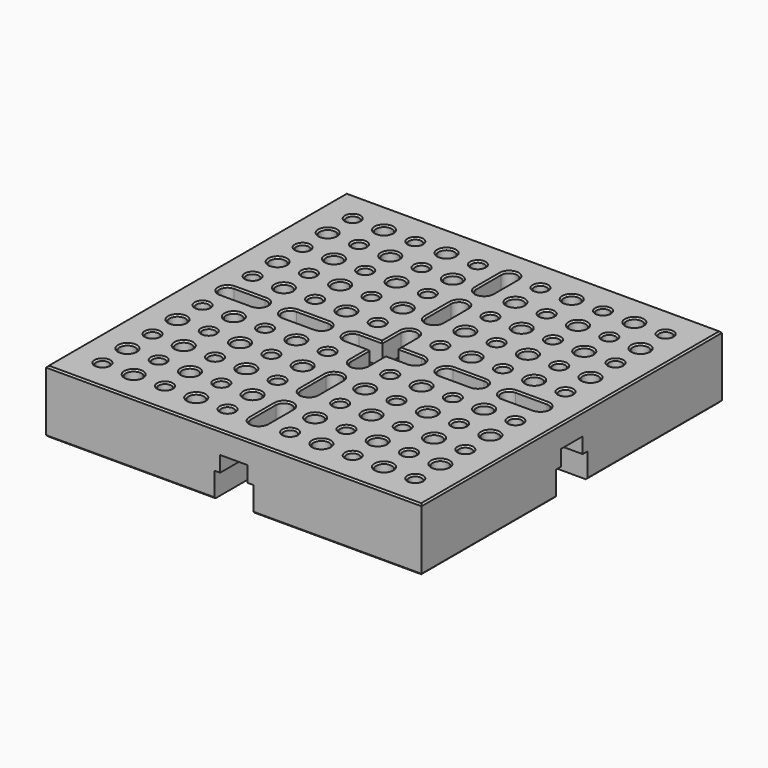
from build123d import *

# Parameters (mm, degrees)
F0_W      = 152.4
F0_H      = 152.4
F1_DEPTH  = 25.4
F3_D      = 5.1054
F4_D      = 5.1054
F5_D      = 6.3754
F5_DEPTH  = 22.86
F5_TIP    = 1.9153633953
F6_W      = 3.2385
F6_H      = 3.2385
F7_DEPTH  = 25.401
F8_SIZE   = 0.635
F10_DEPTH = 152.401
F12_DEPTH = 152.401
F13_R     = 0.79248


with BuildPart() as f1:
    # F0 (on Top) → F1 (new body)
    with BuildSketch(Plane.XY):
        Rectangle(F0_W, F0_H)
    extrude(amount=-F1_DEPTH)

    # F3 (through all)
    with Locations(Plane.XY):
        with Locations((-63.5, 63.5), (-38.1, 63.5), (-12.7, 63.5), (12.7, 63.5), (38.1, 63.5), (63.5, 63.5), (-50.8, 50.8), (-25.4, 50.8), (25.4, 50.8), (50.8, 50.8), (-63.5, 38.1), (-38.1, 38.1), (-12.7, 38.1), (12.7, 38.1), (63.5, 38.1), (38.1, 38.1), (-50.8, 25.4), (-25.4, 25.4), (-25.4, 25.4), (25.4, 25.4), (50.8, 25.4), (-63.5, 12.7), (-38.1, 12.7), (-12.7, 12.7), (12.7, 12.7), (38.1, 12.7), (63.5, 12.7)):
            Hole(F3_D / 2)

    # F4 (through all)
    with Locations(Plane.XY):
        with Locations((-63.5, -12.7), (-38.1, -12.7), (-12.7, -12.7), (12.7, -12.7), (38.1, -12.7), (63.5, -12.7), (-50.8, -25.4), (-25.4, -25.4), (25.4, -25.4), (50.8, -25.4), (63.5, -38.1), (38.1, -38.1), (12.7, -38.1), (-12.7, -38.1), (-38.1, -38.1), (-63.5, -38.1), (-50.8, -50.8), (-25.4, -50.8), (50.8, -50.8), (25.4, -50.8), (-63.5, -63.5), (-38.1, -63.5), (-12.7, -63.5), (12.7, -63.5), (38.1, -63.5), (63.5, -63.5)):
            Hole(F4_D / 2)

    # F5
    with Locations(Plane.XY):
        with Locations((-50.8, 63.5), (-25.4, 63.5), (25.4, 63.5), (50.8, 63.5), (50.8, 38.1), (38.1, 50.8), (12.7, 50.8), (-12.7, 50.8), (-63.5, 50.8), (-50.8, 38.1), (-38.1, 50.8), (-25.4, 38.1), (25.4, 38.1), (63.5, 50.8), (63.5, 25.4), (38.1, 25.4), (63.5, 25.4), (12.7, 25.4), (-12.7, 25.4), (-63.5, 25.4), (-25.4, 12.7), (-50.8, 12.7), (-38.1, 25.4), (25.4, 12.7), (50.8, 12.7), (-50.8, -12.7), (-25.4, -12.7), (-12.7, -25.4), (-38.1, -25.4), (-63.5, -25.4), (-50.8, -38.1), (-25.4, -38.1), (-63.5, -50.8), (-38.1, -50.8), (-12.7, -50.8), (-25.4, -63.5), (-50.8, -63.5), (-25.4, -63.5), (25.4, -63.5), (12.7, -50.8), (12.7, -25.4), (25.4, -12.7), (25.4, -38.1), (38.1, -25.4), (50.8, -12.7), (63.5, -25.4), (38.1, -50.8), (50.8, -38.1), (63.5, -50.8), (50.8, -63.5)):
            Hole(F5_D / 2, depth=F5_DEPTH)
            with Locations((0, 0, -(F5_DEPTH + F5_TIP / 2))):  # 118° drill point
                Cone(0, F5_D / 2, F5_TIP, mode=Mode.SUBTRACT)

    # F6 (on face) → F7 (cut, through all)
    with BuildSketch(Plane.XY):
        with Locations((1.61925, 1.61925)):
            Rectangle(F6_W, F6_H)
        with BuildLine():
            Line((-3.2385, 3.2385), (0, 3.2385))
            Line((0, 3.2385), (3.2385, 3.2385))
            Line((3.2385, 3.2385), (3.2385, 12.7))
            ThreePointArc((3.2385, 12.7), (0, 15.9385), (-3.2385, 12.7))
            Line((-3.2385, 12.7), (-3.2385, 3.2385))
        make_face()
        with Locations((-1.61925, 1.61925)):
            Rectangle(F6_W, F6_H)
        with Locations((1.61925, -1.61925)):
            Rectangle(F6_W, F6_H)
        with Locations((-1.61925, -1.61925)):
            Rectangle(F6_W, F6_H)
        with BuildLine():
            Line((12.7, 3.2385), (3.2385, 3.2385))
            Line((3.2385, 3.2385), (3.2385, 0))
            Line((3.2385, 0), (3.2385, -3.2385))
            Line((3.2385, -3.2385), (12.7, -3.2385))
            ThreePointArc((12.7, -3.2385), (15.9385, 0), (12.7, 3.2385))
        make_face()
        with BuildLine():
            Line((-3.2385, 0), (-3.2385, 3.2385))
            Line((-3.2385, 3.2385), (-12.7, 3.2385))
            ThreePointArc((-12.7, 3.2385), (-15.9385, 0), (-12.7, -3.2385))
            Line((-12.7, -3.2385), (-3.2385, -3.2385))
            Line((-3.2385, -3.2385), (-3.2385, 0))
        make_face()
        with BuildLine():
            Line((3.2385, -3.2385), (0, -3.2385))
            Line((0, -3.2385), (-3.2385, -3.2385))
            Line((-3.2385, -3.2385), (-3.2385, -12.7))
            ThreePointArc((-3.2385, -12.7), (0, -15.9385), (3.2385, -12.7))
            Line((3.2385, -12.7), (3.2385, -3.2385))
        make_face()
        with BuildLine():
            ThreePointArc((3.2385, 63.5), (0, 66.7385), (-3.2385, 63.5))
            Line((-3.2385, 63.5), (-3.2385, 50.8))
            ThreePointArc((-3.2385, 50.8), (0, 47.5615), (3.2385, 50.8))
            Line((3.2385, 50.8), (3.2385, 63.5))
        make_face()
        with BuildLine():
            ThreePointArc((3.2385, 38.1), (0, 41.3385), (-3.2385, 38.1))
            Line((-3.2385, 38.1), (-3.2385, 25.4))
            ThreePointArc((-3.2385, 25.4), (0, 22.1615), (3.2385, 25.4))
            Line((3.2385, 25.4), (3.2385, 38.1))
        make_face()
        with BuildLine():
            ThreePointArc((-25.4, -3.2385), (-22.1615, 0), (-25.4, 3.2385))
            Line((-25.4, 3.2385), (-38.1, 3.2385))
            ThreePointArc((-38.1, 3.2385), (-41.3385, 0), (-38.1, -3.2385))
            Line((-38.1, -3.2385), (-25.4, -3.2385))
        make_face()
        with BuildLine():
            ThreePointArc((-50.8, -3.2385), (-47.5615, 0), (-50.8, 3.2385))
            Line((-50.8, 3.2385), (-63.5, 3.2385))
            ThreePointArc((-63.5, 3.2385), (-66.7385, 0), (-63.5, -3.2385))
            Line((-63.5, -3.2385), (-50.8, -3.2385))
        make_face()
        with BuildLine():
            ThreePointArc((25.4, 3.2385), (22.1615, 0), (25.4, -3.2385))
            Line((25.4, -3.2385), (38.1, -3.2385))
            ThreePointArc((38.1, -3.2385), (41.3385, 0), (38.1, 3.2385))
            Line((38.1, 3.2385), (25.4, 3.2385))
        make_face()
        with BuildLine():
            ThreePointArc((50.8, 3.2385), (47.5615, 0), (50.8, -3.2385))
            Line((50.8, -3.2385), (63.5, -3.2385))
            ThreePointArc((63.5, -3.2385), (66.7385, 0), (63.5, 3.2385))
            Line((63.5, 3.2385), (50.8, 3.2385))
        make_face()
        with BuildLine():
            ThreePointArc((-3.2385, -38.1), (0, -41.3385), (3.2385, -38.1))
            Line((3.2385, -38.1), (3.2385, -25.4))
            ThreePointArc((3.2385, -25.4), (0, -22.1615), (-3.2385, -25.4))
            Line((-3.2385, -25.4), (-3.2385, -38.1))
        make_face()
        with BuildLine():
            ThreePointArc((-3.2385, -63.5), (0, -66.7385), (3.2385, -63.5))
            Line((3.2385, -63.5), (3.2385, -50.8))
            ThreePointArc((3.2385, -50.8), (0, -47.5615), (-3.2385, -50.8))
            Line((-3.2385, -50.8), (-3.2385, -63.5))
        make_face()
    extrude(amount=-F7_DEPTH, mode=Mode.SUBTRACT)

    # F8
    f8_edges = [f1.edges().sort_by_distance(p)[0] for p in [
        (-76.2, 0, 0),
        (0, 76.2, 0),
        (0, -76.2, 0),
        (76.2, 0, 0),
        (-66.0527, -63.5, 0),
        (-53.9877, -63.5, 0),
        (-66.6877, -50.8, 0),
        (-53.3527, -50.8, 0),
        (-40.6527, -63.5, 0),
        (-41.2877, -50.8, 0),
        (-66.0527, -38.1, 0),
        (-53.9877, -38.1, 0),
        (-40.6527, -38.1, 0),
        (-28.5877, -63.5, 0),
        (-27.9527, -50.8, 0),
        (-15.2527, -63.5, 0),
        (-15.8877, -50.8, 0),
        (-28.5877, -38.1, 0),
        (-15.2527, -38.1, 0),
        (-66.6877, -25.4, 0),
        (-53.3527, -25.4, 0),
        (-41.2877, -25.4, 0),
        (-66.0527, -12.7, 0),
        (-53.9877, -12.7, 0),
        (-40.6527, -12.7, 0),
        (-27.9527, -25.4, 0),
        (-15.8877, -25.4, 0),
        (-28.5877, -12.7, 0),
        (-15.2527, -12.7, 0),
        (10.1473, -63.5, 0),
        (3.2385, -57.15, 0),
        (0, -47.5615, 0),
        (-3.2385, -57.15, 0),
        (0, -66.7385, 0),
        (9.5123, -50.8, 0),
        (22.2123, -63.5, 0),
        (22.8473, -50.8, 0),
        (10.1473, -38.1, 0),
        (22.2123, -38.1, 0),
        (35.5473, -63.5, 0),
        (34.9123, -50.8, 0),
        (47.6123, -63.5, 0),
        (60.9473, -63.5, 0),
        (48.2473, -50.8, 0),
        (60.3123, -50.8, 0),
        (35.5473, -38.1, 0),
        (47.6123, -38.1, 0),
        (60.9473, -38.1, 0),
        (3.2385, -31.75, 0),
        (0, -22.1615, 0),
        (-3.2385, -31.75, 0),
        (0, -41.3385, 0),
        (9.5123, -25.4, 0),
        (22.8473, -25.4, 0),
        (10.1473, -12.7, 0),
        (22.2123, -12.7, 0),
        (34.9123, -25.4, 0),
        (48.2473, -25.4, 0),
        (60.3123, -25.4, 0),
        (35.5473, -12.7, 0),
        (47.6123, -12.7, 0),
        (60.9473, -12.7, 0),
        (-57.15, -3.2385, 0),
        (-47.5615, 0, 0),
        (-57.15, 3.2385, 0),
        (-66.7385, 0, 0),
        (-66.0527, 12.7, 0),
        (-53.9877, 12.7, 0),
        (-40.6527, 12.7, 0),
        (-66.6877, 25.4, 0),
        (-53.3527, 25.4, 0),
        (-41.2877, 25.4, 0),
        (-31.75, -3.2385, 0),
        (-22.1615, 0, 0),
        (-31.75, 3.2385, 0),
        (-41.3385, 0, 0),
        (-28.5877, 12.7, 0),
        (-15.2527, 12.7, 0),
        (-27.9527, 25.4, 0),
        (-15.8877, 25.4, 0),
        (-66.0527, 38.1, 0),
        (-53.9877, 38.1, 0),
        (-40.6527, 38.1, 0),
        (-66.6877, 50.8, 0),
        (-53.3527, 50.8, 0),
        (-66.0527, 63.5, 0),
        (-53.9877, 63.5, 0),
        (-41.2877, 50.8, 0),
        (-40.6527, 63.5, 0),
        (-28.5877, 38.1, 0),
        (-15.2527, 38.1, 0),
        (-27.9527, 50.8, 0),
        (-28.5877, 63.5, 0),
        (-15.8877, 50.8, 0),
        (-15.2527, 63.5, 0),
        (0, 15.9385, 0),
        (-3.2385, 7.96925, 0),
        (-7.96925, 3.2385, 0),
        (-15.9385, 0, 0),
        (-7.96925, -3.2385, 0),
        (-3.2385, -7.96925, 0),
        (0, -15.9385, 0),
        (3.2385, -7.96925, 0),
        (7.96925, -3.2385, 0),
        (15.9385, 0, 0),
        (7.96925, 3.2385, 0),
        (3.2385, 7.96925, 0),
        (10.1473, 12.7, 0),
        (31.75, 3.2385, 0),
        (22.1615, 0, 0),
        (31.75, -3.2385, 0),
        (41.3385, 0, 0),
        (22.2123, 12.7, 0),
        (-3.2385, 31.75, 0),
        (0, 22.1615, 0),
        (3.2385, 31.75, 0),
        (0, 41.3385, 0),
        (9.5123, 25.4, 0),
        (22.8473, 25.4, 0),
        (35.5473, 12.7, 0),
        (57.15, 3.2385, 0),
        (47.5615, 0, 0),
        (57.15, -3.2385, 0),
        (66.7385, 0, 0),
        (47.6123, 12.7, 0),
        (60.9473, 12.7, 0),
        (34.9123, 25.4, 0),
        (48.2473, 25.4, 0),
        (60.3123, 25.4, 0),
        (10.1473, 38.1, 0),
        (22.2123, 38.1, 0),
        (-3.2385, 57.15, 0),
        (0, 47.5615, 0),
        (3.2385, 57.15, 0),
        (0, 66.7385, 0),
        (9.5123, 50.8, 0),
        (10.1473, 63.5, 0),
        (22.8473, 50.8, 0),
        (22.2123, 63.5, 0),
        (35.5473, 38.1, 0),
        (47.6123, 38.1, 0),
        (60.9473, 38.1, 0),
        (34.9123, 50.8, 0),
        (35.5473, 63.5, 0),
        (48.2473, 50.8, 0),
        (60.3123, 50.8, 0),
        (47.6123, 63.5, 0),
        (60.9473, 63.5, 0),
        (-76.2, 0, -25.4),
        (0, 76.2, -25.4),
        (0, -76.2, -25.4),
        (76.2, 0, -25.4),
        (-66.0527, -63.5, -25.4),
        (-53.3527, -50.8, -25.4),
        (-40.6527, -63.5, -25.4),
        (-66.0527, -38.1, -25.4),
        (-40.6527, -38.1, -25.4),
        (-27.9527, -50.8, -25.4),
        (-15.2527, -63.5, -25.4),
        (-15.2527, -38.1, -25.4),
        (-53.3527, -25.4, -25.4),
        (-66.0527, -12.7, -25.4),
        (-40.6527, -12.7, -25.4),
        (-27.9527, -25.4, -25.4),
        (-15.2527, -12.7, -25.4),
        (10.1473, -63.5, -25.4),
        (3.2385, -57.15, -25.4),
        (0, -47.5615, -25.4),
        (-3.2385, -57.15, -25.4),
        (0, -66.7385, -25.4),
        (22.8473, -50.8, -25.4),
        (10.1473, -38.1, -25.4),
        (35.5473, -63.5, -25.4),
        (60.9473, -63.5, -25.4),
        (48.2473, -50.8, -25.4),
        (35.5473, -38.1, -25.4),
        (60.9473, -38.1, -25.4),
        (3.2385, -31.75, -25.4),
        (0, -22.1615, -25.4),
        (-3.2385, -31.75, -25.4),
        (0, -41.3385, -25.4),
        (22.8473, -25.4, -25.4),
        (10.1473, -12.7, -25.4),
        (48.2473, -25.4, -25.4),
        (35.5473, -12.7, -25.4),
        (60.9473, -12.7, -25.4),
        (-57.15, -3.2385, -25.4),
        (-47.5615, 0, -25.4),
        (-57.15, 3.2385, -25.4),
        (-66.7385, 0, -25.4),
        (-66.0527, 12.7, -25.4),
        (-40.6527, 12.7, -25.4),
        (-53.3527, 25.4, -25.4),
        (-31.75, -3.2385, -25.4),
        (-22.1615, 0, -25.4),
        (-31.75, 3.2385, -25.4),
        (-41.3385, 0, -25.4),
        (-15.2527, 12.7, -25.4),
        (-27.9527, 25.4, -25.4),
        (-66.0527, 38.1, -25.4),
        (-40.6527, 38.1, -25.4),
        (-53.3527, 50.8, -25.4),
        (-66.0527, 63.5, -25.4),
        (-40.6527, 63.5, -25.4),
        (-15.2527, 38.1, -25.4),
        (-27.9527, 50.8, -25.4),
        (-15.2527, 63.5, -25.4),
        (0, 15.9385, -25.4),
        (-3.2385, 7.96925, -25.4),
        (-7.96925, 3.2385, -25.4),
        (-15.9385, 0, -25.4),
        (-7.96925, -3.2385, -25.4),
        (-3.2385, -7.96925, -25.4),
        (0, -15.9385, -25.4),
        (3.2385, -7.96925, -25.4),
        (7.96925, -3.2385, -25.4),
        (15.9385, 0, -25.4),
        (7.96925, 3.2385, -25.4),
        (3.2385, 7.96925, -25.4),
        (10.1473, 12.7, -25.4),
        (31.75, 3.2385, -25.4),
        (22.1615, 0, -25.4),
        (31.75, -3.2385, -25.4),
        (41.3385, 0, -25.4),
        (-3.2385, 31.75, -25.4),
        (0, 22.1615, -25.4),
        (3.2385, 31.75, -25.4),
        (0, 41.3385, -25.4),
        (22.8473, 25.4, -25.4),
        (35.5473, 12.7, -25.4),
        (57.15, 3.2385, -25.4),
        (47.5615, 0, -25.4),
        (57.15, -3.2385, -25.4),
        (66.7385, 0, -25.4),
        (60.9473, 12.7, -25.4),
        (48.2473, 25.4, -25.4),
        (10.1473, 38.1, -25.4),
        (-3.2385, 57.15, -25.4),
        (0, 47.5615, -25.4),
        (3.2385, 57.15, -25.4),
        (0, 66.7385, -25.4),
        (10.1473, 63.5, -25.4),
        (22.8473, 50.8, -25.4),
        (35.5473, 38.1, -25.4),
        (60.9473, 38.1, -25.4),
        (35.5473, 63.5, -25.4),
        (48.2473, 50.8, -25.4),
        (60.9473, 63.5, -25.4),
    ]]
    chamfer(f8_edges, length=F8_SIZE)

    # F9 (on face) → F10 (cut, through all)
    with BuildSketch(Plane.YZ.offset(76.2)):
        Polygon((-7.9375, -15.24), (-7.9375, -34.29), (7.9375, -34.29), (7.9375, -15.24), (5.55625, -15.24), (5.55625, -8.89), (-5.55625, -8.89), (-5.55625, -15.24), align=None)
    extrude(amount=-F10_DEPTH, mode=Mode.SUBTRACT)

    # F11 (on face) → F12 (cut, through all)
    with BuildSketch(Plane(origin=(0, 76.2, 0), x_dir=(-1, 0, 0), z_dir=(0, 1, 0))):
        Polygon((-7.9375, -15.24), (-7.9375, -34.29), (7.9375, -34.29), (7.9375, -15.24), (5.55625, -15.24), (5.55625, -8.89), (-5.55625, -8.89), (-5.55625, -15.24), align=None)
    extrude(amount=-F12_DEPTH, mode=Mode.SUBTRACT)

    # F13
    f13_edges = [f1.edges().sort_by_distance(p)[0] for p in [
        (7.9375, -7.9375, -20.32),
        (-7.9375, -7.9375, -20.32),
        (7.9375, 7.9375, -20.32),
        (-7.9375, 7.9375, -20.32),
        (-5.55625, 5.55625, -12.065),
        (-5.55625, -5.55625, -12.065),
        (5.55625, -5.55625, -12.065),
        (5.55625, 5.55625, -12.065),
    ]]
    fillet(f13_edges, radius=F13_R)


solid = f1.part
